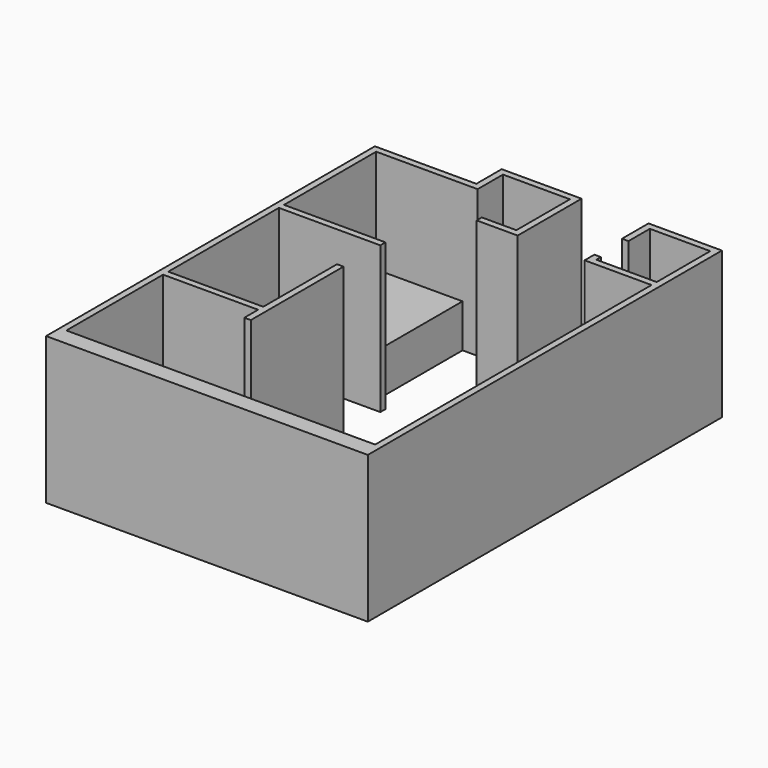
from build123d import *

# Parameters (mm, degrees)
F0_W     = 50.8
F0_H     = 9.525
F0_W_2   = 9.525
F0_H_2   = 39.1583333333
F0_W_3   = 88.9
F0_H_3   = 8.4666666667
F0_W_4   = 314.325
F0_H_4   = 25.4
F0_W_5   = 139.7
F1_DEPTH = 215.9
F3_W     = 127
F3_H     = 169.3333333333
F4_DEPTH = 63.5


with BuildPart() as f1:
    # F0 (on Top) → F1 (new body)
    with BuildSketch(Plane.XY):
        Polygon((-9.525, 0), (0, 0), (0, 25.4), (0, 203.2), (139.7, 203.2), (139.7, 177.8), (149.225, 177.8), (149.225, 348.1916666667), (139.7, 348.1916666667), (139.7, 212.725), (0, 212.725), (0, 415.925), (0, 425.45), (0, 594.7833333333), (139.7, 594.7833333333), (149.225, 594.7833333333), (149.225, 641.35), (247.65, 641.35), (247.65, 650.875), (139.7, 650.875), (139.7, 604.3083333333), (-9.525, 604.3083333333), (-9.525, 594.7833333333), align=None)
        Polygon((0, 425.45), (0, 415.925), (139.7, 415.925), (149.225, 415.925), (149.225, 425.45), (139.7, 425.45), align=None)
        Polygon((257.175, 650.875), (247.65, 650.875), (247.65, 641.35), (247.65, 542.925), (247.65, 533.4), (257.175, 533.4), align=None)
        with Locations((222.25, 538.1625)):
            Rectangle(F0_W, F0_H)
        with Locations((360.3625, 621.7708333333)):
            Rectangle(F0_W_2, F0_H_2)
        with Locations((360.3625, 646.1125)):
            Rectangle(F0_W_2, F0_H)
        with Locations((409.575, 646.1125)):
            Rectangle(F0_W_3, F0_H)
        Polygon((454.025, 25.4), (454.025, 0), (457.2, 0), (463.55, 0), (463.55, 650.875), (454.025, 650.875), (454.025, 641.35), (454.025, 542.925), (454.025, 533.4), align=None)
        with Locations((409.575, 538.1625)):
            Rectangle(F0_W_3, F0_H)
        with Locations((360.3625, 547.1583333333)):
            Rectangle(F0_W_2, F0_H_3)
        with Locations((360.3625, 538.1625)):
            Rectangle(F0_W_2, F0_H)
        with Locations((296.8625, 12.7)):
            Rectangle(F0_W_4, F0_H_4)
        with Locations((69.85, 12.7)):
            Rectangle(F0_W_5, F0_H_4)
    extrude(amount=F1_DEPTH)


with BuildPart() as f4:
    # F3 (on face) → F4 (new body)
    with BuildSketch(Plane.XY):
        with Locations((63.5, 510.1166666667)):
            Rectangle(F3_W, F3_H)
    extrude(amount=F4_DEPTH)


solid = Compound([f1.part, f4.part])
